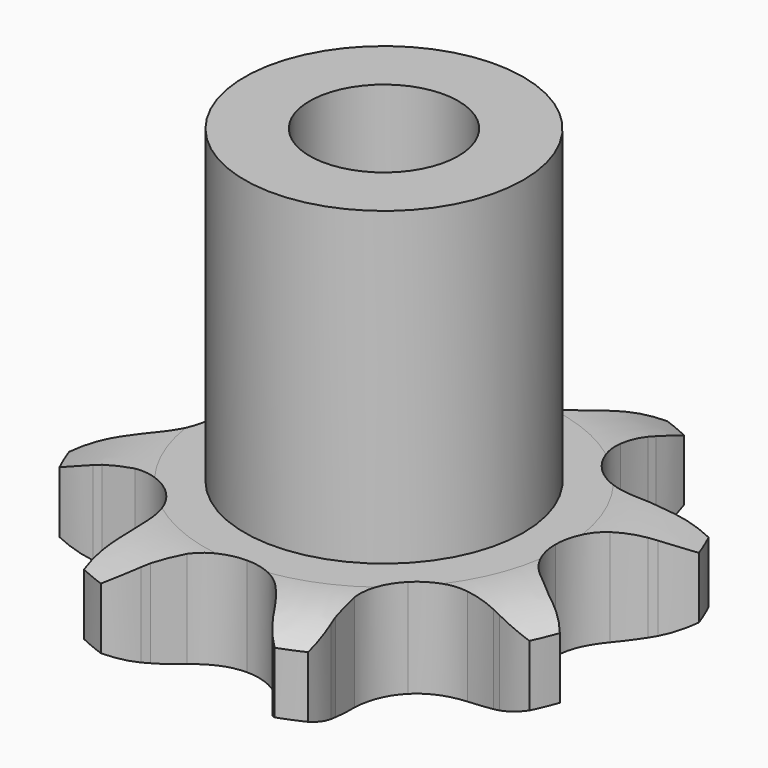
from build123d import *

# Parameters (mm, degrees)
PAD_DEPTH         = 5.3
SKETCH001_R       = 7.5
PAD001_DEPTH      = 22
SKETCH002_R       = 4
POCKET_DEPTH      = 0.001
POCKET_DEPTH_BACK = -22.001


with BuildPart() as part:
    # Sprocket → Pad (new body)
    with BuildSketch(Plane.XY):
        with BuildLine():
            ThreePointArc((-5.766758, 13.922185), (-4.521193, 13.063008), (-3.559374, 11.894879))
            Line((-3.559374, 11.894879), (-3.339197, 11.535583))
            ThreePointArc((-3.339197, 11.535583), (-2.890474, 10.876545), (-2.38065, 10.263548))
            ThreePointArc((-2.38065, 10.263548), (-1.300459, 9.489494), (0, 9.216037))
            ThreePointArc((0, 9.216037), (1.300459, 9.489494), (2.38065, 10.263548))
            ThreePointArc((2.38065, 10.263548), (2.890474, 10.876545), (3.339197, 11.535583))
            Line((3.339197, 11.535583), (3.559374, 11.894879))
            ThreePointArc((3.559374, 11.894879), (4.521193, 13.063008), (5.766758, 13.922185))
            ThreePointArc((5.766758, 13.922185), (6.039975, 12.433907), (5.894092, 10.927807))
            Line((5.894092, 10.927807), (5.79572, 10.518058))
            ThreePointArc((5.79572, 10.518058), (5.647005, 9.734752), (5.574051, 8.940798))
            ThreePointArc((5.574051, 8.940798), (5.790522, 7.629649), (6.516722, 6.516722))
            ThreePointArc((6.516722, 6.516722), (7.629649, 5.790522), (8.940798, 5.574051))
            Line((8.940798, 5.574051), (10.518058, 5.79572))
            ThreePointArc((10.518058, 5.79572), (10.722309, 5.847504), (10.927807, 5.894092))
            ThreePointArc((10.927807, 5.894092), (12.433907, 6.039975), (13.922185, 5.766758))
            ThreePointArc((13.922185, 5.766758), (13.063008, 4.521193), (11.894879, 3.559374))
            Line((11.894879, 3.559374), (11.535583, 3.339197))
            ThreePointArc((11.535583, 3.339197), (10.876545, 2.890474), (10.263548, 2.38065))
            ThreePointArc((10.263548, 2.38065), (9.489494, 1.300459), (9.216037, 0))
            ThreePointArc((9.216037, 0), (9.489494, -1.300459), (10.263548, -2.38065))
            Line((10.263548, -2.38065), (11.535583, -3.339197))
            ThreePointArc((11.535583, -3.339197), (11.716627, -3.447007), (11.894879, -3.559374))
            ThreePointArc((11.894879, -3.559374), (13.063008, -4.521193), (13.922185, -5.766758))
            ThreePointArc((13.922185, -5.766758), (12.433907, -6.039975), (10.927807, -5.894092))
            Line((10.927807, -5.894092), (10.518058, -5.79572))
            ThreePointArc((10.518058, -5.79572), (9.734752, -5.647005), (8.940798, -5.574051))
            ThreePointArc((8.940798, -5.574051), (7.629649, -5.790522), (6.516722, -6.516722))
            ThreePointArc((6.516722, -6.516722), (5.790522, -7.629649), (5.574051, -8.940798))
            Line((5.574051, -8.940798), (5.79572, -10.518058))
            ThreePointArc((5.79572, -10.518058), (5.847504, -10.722309), (5.894092, -10.927807))
            ThreePointArc((5.894092, -10.927807), (6.039975, -12.433907), (5.766758, -13.922185))
            ThreePointArc((5.766758, -13.922185), (4.521193, -13.063008), (3.559374, -11.894879))
            Line((3.559374, -11.894879), (3.339197, -11.535583))
            ThreePointArc((3.339197, -11.535583), (2.890474, -10.876545), (2.38065, -10.263548))
            ThreePointArc((2.38065, -10.263548), (1.300459, -9.489494), (0, -9.216037))
            ThreePointArc((0, -9.216037), (-1.300459, -9.489494), (-2.38065, -10.263548))
            Line((-2.38065, -10.263548), (-3.339197, -11.535583))
            ThreePointArc((-3.339197, -11.535583), (-3.447007, -11.716627), (-3.559374, -11.894879))
            ThreePointArc((-3.559374, -11.894879), (-4.521193, -13.063008), (-5.766758, -13.922185))
            ThreePointArc((-5.766758, -13.922185), (-6.039975, -12.433907), (-5.894092, -10.927807))
            Line((-5.894092, -10.927807), (-5.79572, -10.518058))
            ThreePointArc((-5.79572, -10.518058), (-5.647005, -9.734752), (-5.574051, -8.940798))
            ThreePointArc((-5.574051, -8.940798), (-5.790522, -7.629649), (-6.516722, -6.516722))
            ThreePointArc((-6.516722, -6.516722), (-7.629649, -5.790522), (-8.940798, -5.574051))
            Line((-8.940798, -5.574051), (-10.518058, -5.79572))
            ThreePointArc((-10.518058, -5.79572), (-10.722309, -5.847504), (-10.927807, -5.894092))
            ThreePointArc((-10.927807, -5.894092), (-12.433907, -6.039975), (-13.922185, -5.766758))
            ThreePointArc((-13.922185, -5.766758), (-13.063008, -4.521193), (-11.894879, -3.559374))
            Line((-11.894879, -3.559374), (-11.535583, -3.339197))
            ThreePointArc((-11.535583, -3.339197), (-10.876545, -2.890474), (-10.263548, -2.38065))
            ThreePointArc((-10.263548, -2.38065), (-9.489494, -1.300459), (-9.216037, 0))
            ThreePointArc((-9.216037, 0), (-9.489494, 1.300459), (-10.263548, 2.38065))
            Line((-10.263548, 2.38065), (-11.535583, 3.339197))
            ThreePointArc((-11.535583, 3.339197), (-11.716627, 3.447007), (-11.894879, 3.559374))
            ThreePointArc((-11.894879, 3.559374), (-13.063008, 4.521193), (-13.922185, 5.766758))
            ThreePointArc((-13.922185, 5.766758), (-12.433907, 6.039975), (-10.927807, 5.894092))
            Line((-10.927807, 5.894092), (-10.518058, 5.79572))
            ThreePointArc((-10.518058, 5.79572), (-9.734752, 5.647005), (-8.940798, 5.574051))
            ThreePointArc((-8.940798, 5.574051), (-7.629649, 5.790522), (-6.516722, 6.516722))
            ThreePointArc((-6.516722, 6.516722), (-5.790522, 7.629649), (-5.574051, 8.940798))
            Line((-5.574051, 8.940798), (-5.79572, 10.518058))
            ThreePointArc((-5.79572, 10.518058), (-5.847504, 10.722309), (-5.894092, 10.927807))
            ThreePointArc((-5.894092, 10.927807), (-6.039975, 12.433907), (-5.766758, 13.922185))
        make_face()
    extrude(amount=PAD_DEPTH)

    # Sketch → Groove (revolve, cut)
    with BuildSketch(Plane.XZ):
        with BuildLine():
            Line((9.641101, 0), (14, 0))
            Line((18.358899, 0), (14, 0))
            Line((18.358899, 5.3), (18.358899, 0))
            Line((14, 5.3), (18.358899, 5.3))
            Line((9.641101, 5.3), (14, 5.3))
            ThreePointArc((14, 4.3), (11.877169, 5.046794), (9.641101, 5.3))
            Line((14, 1), (14, 4.3))
            ThreePointArc((9.641101, 0), (11.877169, 0.253206), (14, 1))
        make_face()
    revolve(axis=Axis((0, 0, 0), (0, 0, 1)), mode=Mode.SUBTRACT)

    # Sketch001 → Pad001 (join)
    with BuildSketch(Plane.XY):
        Circle(SKETCH001_R)
    extrude(amount=PAD001_DEPTH)

    # Sketch002 → Pocket (cut, two sides)
    with BuildSketch(Plane.XY) as pocket_sk:
        Circle(SKETCH002_R)
    extrude(amount=-POCKET_DEPTH, mode=Mode.SUBTRACT)
    extrude(pocket_sk.sketch, amount=-POCKET_DEPTH_BACK, mode=Mode.SUBTRACT)


solid = part.part
